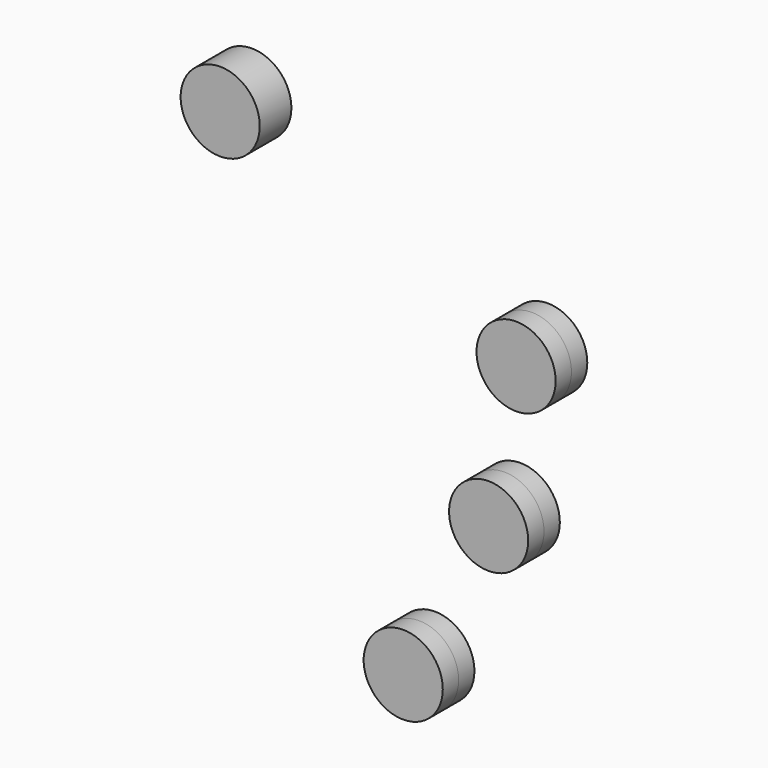
from build123d import *

# Parameters (mm, degrees)
F0_R     = 2.54
F1_DEPTH = 1.27


with BuildPart() as f1:
    # F0 (on Front) → F1 (new body, symmetric)
    with BuildSketch(Plane.XZ):
        with Locations((-35.451189, 20.663537)):
            Circle(F0_R)
        with Locations((-33.688422, 30.260822)):
            Circle(F0_R)
        with Locations((-40.935349, 10.478665)):
            Circle(F0_R)
        with Locations((-52.687123, 38.487062)):
            Circle(F0_R)
    extrude(amount=F1_DEPTH, both=True)


solid = f1.part
